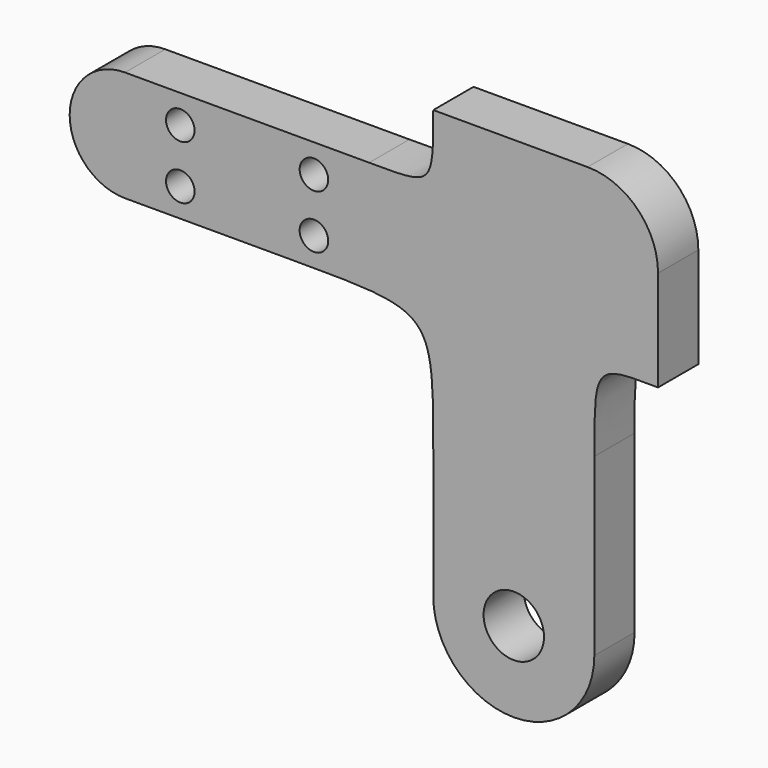
from build123d import *

# Parameters (mm, degrees)
F0_R     = 15
F0_R_2   = 7.087313
F1_DEPTH = 25
F2_R     = 35


with BuildPart() as f1:
    # F0 (on Front) → F1 (new body)
    with BuildSketch(Plane.XZ):
        with BuildLine():
            add(Edge.make_bspline(
                [(0, 60.859382), (0, 26.312792), (0, 27.5), (-31.836466, 27.5)],
                knots=[0, 0, 0, 0, 46.113002, 46.113002, 46.113002, 46.113002], degree=3))
            Line((-31.836466, 27.5), (-153.096049, 27.5))
            ThreePointArc((-153.096049, 27.5), (-180.596049, 0), (-153.096049, -27.5))
            Line((-153.096049, -27.5), (-67.897924, -27.5))
            add(Edge.make_bspline(
                [(-67.897924, -27.5), (0, -27.5), (0, -27.5), (0, -89.587953)],
                knots=[0, 0, 0, 0, 92.005663, 92.005663, 92.005663, 92.005663], degree=3))
            Line((0, -89.587953), (0, -151.675906))
            ThreePointArc((0, -151.675906), (40, -191.675906), (80, -151.675906))
            Line((80, -151.675906), (80, -64.578305))
            add(Edge.make_bspline(
                [(111.659945, -24.140618), (80, -23.653816), (80, -23.971937), (80, -64.578305)],
                knots=[0, 0, 0, 0, 51.357167, 51.357167, 51.357167, 51.357167], degree=3))
            Line((111.659945, -24.140618), (111.659945, 60.859382))
            Line((111.659945, 60.859382), (0, 60.859382))
        make_face()
        with Locations((40, -151.675906)):
            Circle(F0_R, mode=Mode.SUBTRACT)
        with Locations((-125.648696, -13.373151)):
            Circle(F0_R_2, mode=Mode.SUBTRACT)
        with Locations((-59.283819, -13.373151)):
            Circle(F0_R_2, mode=Mode.SUBTRACT)
        with Locations((-125.648696, 13.373151)):
            Circle(F0_R_2, mode=Mode.SUBTRACT)
        with Locations((-59.283819, 13.373151)):
            Circle(F0_R_2, mode=Mode.SUBTRACT)
    extrude(amount=F1_DEPTH)

    # F2
    f2_edges = [f1.edges().sort_by_distance(p)[0] for p in [
        (111.659945, -12.5, 60.859382),
    ]]
    fillet(f2_edges, radius=F2_R)


solid = f1.part
